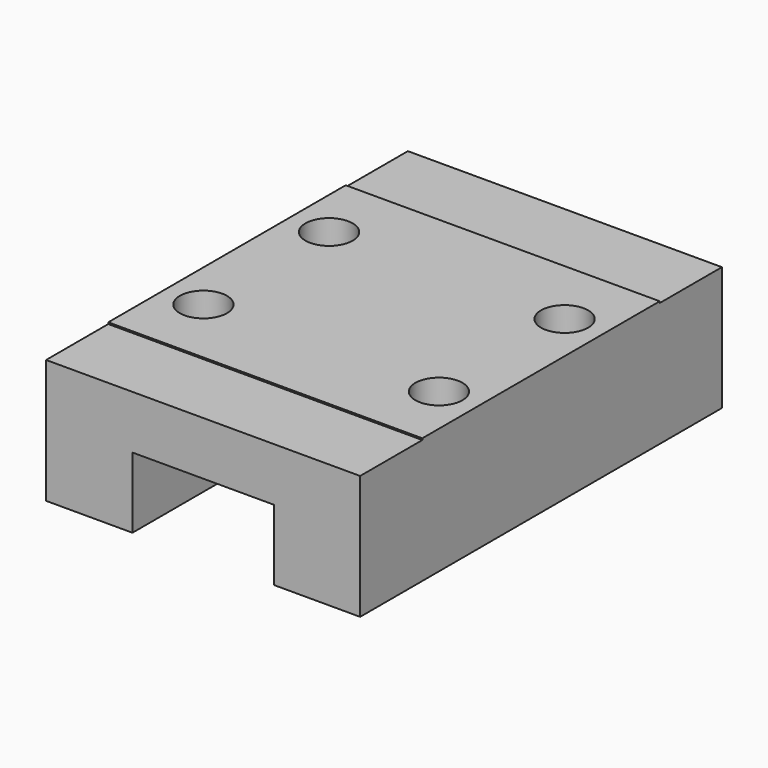
from build123d import *

# Parameters (mm, degrees)
SKETCH003_W     = 20
SKETCH003_H     = 28.8
PAD002_DEPTH    = 8
SKETCH004_W     = 9
SKETCH004_H     = 4.5
POCKET001_DEPTH = 28.8
SKETCH005_R     = 1.5
POCKET002_DEPTH = 4
SKETCH006_W     = 20
SKETCH006_H     = 4.95
POCKET003_DEPTH = 0.1


with BuildPart() as part:
    # Sketch003 → Pad002 (new body)
    with BuildSketch(Plane.XY):
        with Locations((-4.5, 14.4)):
            Rectangle(SKETCH003_W, SKETCH003_H)
    extrude(amount=PAD002_DEPTH)

    # Sketch004 (on Face1 of Pad002) → Pocket001 (cut)
    with BuildSketch(Plane.XZ):
        with Locations((-4.5, 2.25)):
            Rectangle(SKETCH004_W, SKETCH004_H)
    extrude(amount=-POCKET001_DEPTH, mode=Mode.SUBTRACT)

    # Sketch005 (on Face8 of Pocket001) → Pocket002 (cut)
    with BuildSketch(Plane.XY.offset(8)):
        with Locations((-12, 19.4)):
            Circle(SKETCH005_R)
        with Locations((3, 9.4)):
            Circle(SKETCH005_R)
        with Locations((-12, 9.4)):
            Circle(SKETCH005_R)
        with Locations((3, 19.4)):
            Circle(SKETCH005_R)
    extrude(amount=-POCKET002_DEPTH, mode=Mode.SUBTRACT)

    # Sketch006 (on Face8 of Pocket002) → Pocket003 (cut)
    with BuildSketch(Plane.XY.offset(8)):
        with Locations((-4.5, 26.325)):
            Rectangle(SKETCH006_W, SKETCH006_H)
        with Locations((-4.5, 2.475)):
            Rectangle(SKETCH006_W, SKETCH006_H)
    extrude(amount=-POCKET003_DEPTH, mode=Mode.SUBTRACT)


with BuildPart() as part_1:
    # Body002 placement: moved
    add(part.part.moved(Location((0, 100, 2))))


solid = part_1.part
